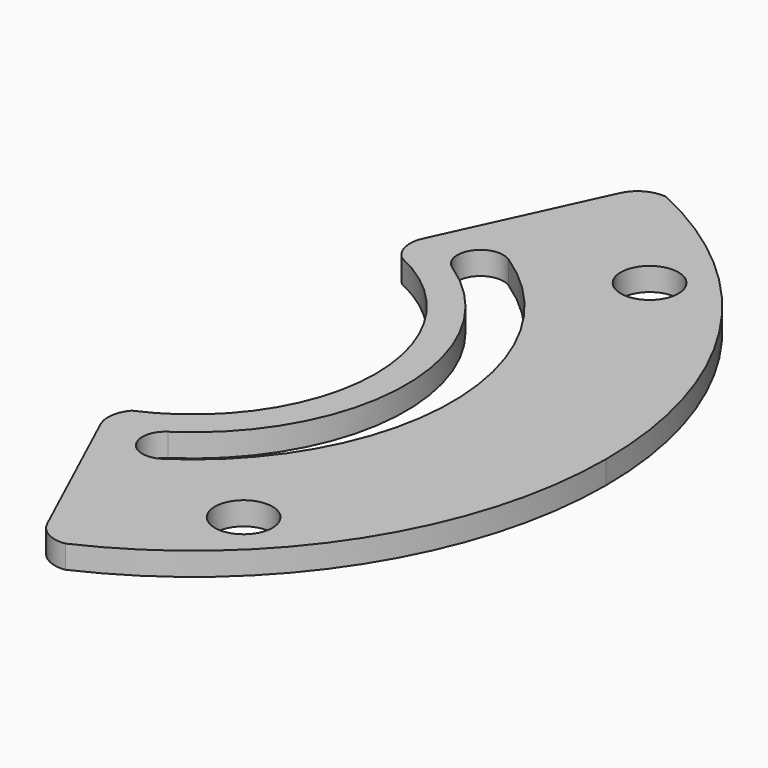
from build123d import *

# Parameters (mm, degrees)
F2_DEPTH = 3
F0_R     = 3.75
F3_DEPTH = 25
F5_DEPTH = 25


with BuildPart() as f2:
    # F1 (on Top) → F2 (new body)
    with BuildSketch(Plane.XY):
        with BuildLine():
            Line((18.290832, 46.547922), (8.93864, 26.261448))
            ThreePointArc((8.93864, 26.261448), (8.657222, 23.761775), (9.923681, 21.58838))
            ThreePointArc((9.923681, 21.58838), (20.004053, 12.8209), (23.76, 0))
            ThreePointArc((23.76, 0), (19.870822, -13.026435), (9.476497, -21.788382))
            ThreePointArc((9.476497, -21.788382), (8.532906, -23.848429), (8.859869, -26.090582))
            Line((8.859869, -26.090582), (18.290832, -46.547922))
            ThreePointArc((18.290832, -46.547922), (20.006943, -48.384291), (22.479731, -48.834407))
            ThreePointArc((22.479731, -48.834407), (45.26946, -28.996787), (53.76, 0))
            ThreePointArc((53.76, 0), (45.26946, 28.996787), (22.479731, 48.834407))
            ThreePointArc((22.479731, 48.834407), (20.006943, 48.384291), (18.290832, 46.547922))
        make_face()
    extrude(amount=F2_DEPTH)

    # F0 (on Top) → F3 (cut)
    with BuildSketch(Plane.XY):
        with Locations((33, 33)):
            Circle(F0_R)
        with Locations((33, -33)):
            Circle(F0_R)
    extrude(amount=F3_DEPTH, mode=Mode.SUBTRACT)

    # F4 (on face) → F5 (cut)
    with BuildSketch(Plane.XY.offset(3)):
        with BuildLine():
            ThreePointArc((18.566805, 28.110953), (14.410164, 27.261049), (15.260068, 23.104408))
            ThreePointArc((15.260068, 23.104408), (27.689048, 0), (15.260068, -23.104408))
            ThreePointArc((15.260068, -23.104408), (14.410164, -27.261049), (18.566805, -28.110953))
            ThreePointArc((18.566805, -28.110953), (33.689048, 0), (18.566805, 28.110953))
        make_face()
    extrude(amount=-F5_DEPTH, mode=Mode.SUBTRACT)


solid = f2.part
